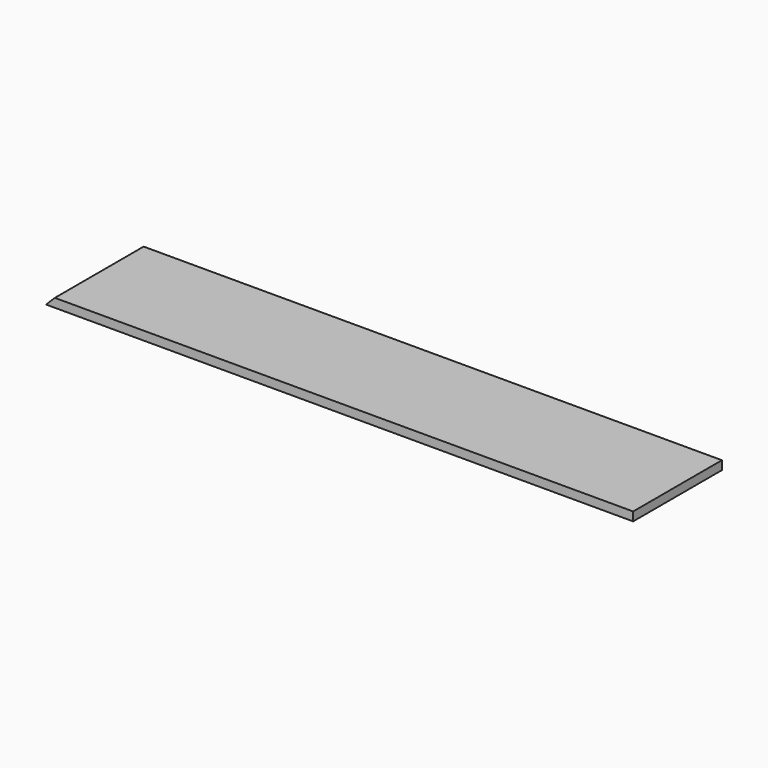
from build123d import *

# Parameters (mm, degrees)
F0_W     = 1276.35
F0_H     = 19.05
F1_DEPTH = 241.3
F5_DEPTH = 241.301


with BuildPart() as f1:
    # F0 (on Front) → F1 (new body)
    with BuildSketch(Plane.XZ):
        with Locations((564.411236, -9.525)):
            Rectangle(F0_W, F0_H)
    extrude(amount=F1_DEPTH)

    # F4 (on face) → F5 (cut, through all)
    with BuildSketch(Plane.XZ.offset(241.3)):
        Polygon((-73.763764, 0), (-73.763764, -19.05), (-54.713764, 0), align=None)
    extrude(amount=-F5_DEPTH, mode=Mode.SUBTRACT)


with BuildPart() as f2_1:
    # F2: copy of F1
    add(f1.part.moved(Location((0, 0, 381))))


solid = f1.part
